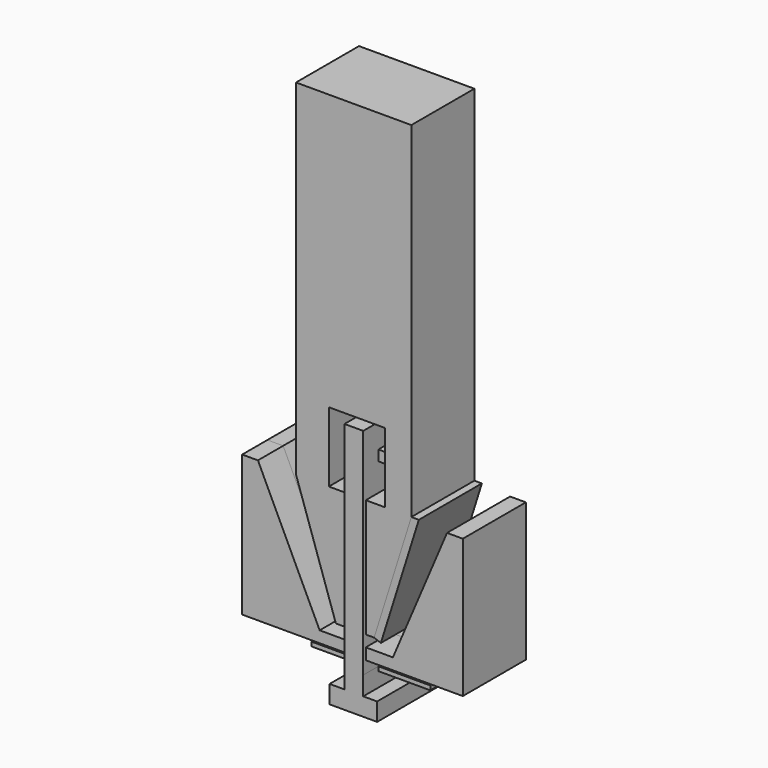
from build123d import *

# Parameters (mm, degrees)
F1_DEPTH = 25
F2_DEPTH = 25
F0_W     = 5.9533766471
F0_H     = 3.6081648873
F3_DEPTH = 25
F4_DEPTH = 15
F0_H_2   = 3.3184252679
F0_H_3   = 4.5973956585
F0_H_4   = 3.5789706303
F0_H_5   = 7.6343305409
F0_H_6   = 1.3497583568
F0_H_7   = 37.5237402231
F0_H_8   = 8.8124598652
F0_H_9   = 3.724694252
F5_DEPTH = 26
F0_W_2   = 16.4814870805
F0_W_3   = 15.3268058784
F6_DEPTH = 20
F0_W_4   = 3.1829625368
F0_W_5   = 3.4437016584
F7_DEPTH = 20


with BuildPart() as f1:
    # F0 (on Front) → F1 (new body)
    with BuildSketch(Plane.XZ):
        Polygon((-6.570763886, 7.1871355176), (-3.0373330228, 7.1871355176), (-3.0373330228, 44.7108757407), (-8.8012386113, 44.7108757407), (-8.8012386113, 66.8681040406), (9.0117957443, 66.8681040406), (9.0117957443, 44.7108757407), (2.9160436243, 44.7108757407), (2.9160436243, 7.1871355176), (5.5738165975, 7.1871355176), (17.3762962222, 44.7108757407), (17.3762962222, 154.1877835989), (-19.2284993827, 154.1877835989), (-19.2284993827, 44.7108757407), align=None)
        Polygon((-6.570763886, 7.1871355176), (-3.0373330228, 7.1871355176), (-3.0373330228, 44.7108757407), (-8.8012386113, 44.7108757407), (-8.8012386113, 66.8681040406), (9.0117957443, 66.8681040406), (9.0117957443, 44.7108757407), (2.9160436243, 44.7108757407), (2.9160436243, 7.1871355176), (5.5738165975, 7.1871355176), (17.3762962222, 44.7108757407), (17.3762962222, 154.1877835989), (-19.2284993827, 154.1877835989), (-19.2284993827, 44.7108757407), align=None)
    extrude(amount=F1_DEPTH)


with BuildPart() as f2:
    # F0 (on Front) → F2 (new body)
    with BuildSketch(Plane.XZ):
        Polygon((17.3762962222, 44.7108757407), (5.5738165975, 7.1871355176), (7.7029102343, 6.3787537654), (19.7596531361, 44.7108757407), align=None)
    extrude(amount=F2_DEPTH)


with BuildPart() as f3:
    # F0 (on Front) → F3 (new body)
    with BuildSketch(Plane.XZ):
        Polygon((13.683658185, 8.658802552), (11.5349981756, 3.6081648873), (10, 0), (15, 0), (33.7026296736, 43.9623790848), (28.7026296736, 43.9623790848), (25.7369572809, 36.991273083), align=None)
        Polygon((33.7026296736, 43.9623790848), (15, 0), (33.7026296736, 0), align=None)
        Polygon((11.5349981756, 3.6081648873), (2.9160436243, 3.6081648873), (2.9160436243, 0), (10, 0), align=None)
        with Locations((-0.0606446993, 1.8040824437)):
            Rectangle(F0_W, F0_H)
        Polygon((-3.0373330228, 3.6081648873), (-11.7186964588, 3.6081648873), (-10, 0), (-3.0373330228, 0), align=None)
        Polygon((-11.7186964588, 3.6081648873), (-31.2973703264, 44.7108757407), (-36.2973703264, 44.7108757407), (-15, 0), (-10, 0), align=None)
        Polygon((-15, 0), (-36.2973703264, 44.7108757407), (-36.2973703264, 0), align=None)
    extrude(amount=F3_DEPTH)


with BuildPart() as f4:
    # F0 (on Front) → F4 (new body)
    with BuildSketch(Plane.XZ):
        Polygon((11.5580922573, 9.5630682723), (13.683658185, 8.658802552), (25.7369572809, 36.991273083), (23.6113913532, 37.8955388033), align=None)
    extrude(amount=F4_DEPTH)


with BuildPart() as f4b:
    # F0 (on Front) → F4, piece 2 (new body)
    with BuildSketch(Plane.XZ):
        Polygon((-3.0373330228, 3.6081648873), (-11.7186964588, 3.6081648873), (-10, 0), (-3.0373330228, 0), align=None)
        Polygon((11.5349981756, 3.6081648873), (2.9160436243, 3.6081648873), (2.9160436243, 0), (10, 0), align=None)
        with Locations((-0.0606446993, 1.8040824437)):
            Rectangle(F0_W, F0_H)
        Polygon((-11.7186964588, 3.6081648873), (-31.2973703264, 44.7108757407), (-36.2973703264, 44.7108757407), (-15, 0), (-10, 0), align=None)
        Polygon((-15, 0), (-36.2973703264, 44.7108757407), (-36.2973703264, 0), align=None)
    extrude(amount=F4_DEPTH)


with BuildPart() as f5:
    # F0 (on Front) → F5 (new body)
    with BuildSketch(Plane.XZ):
        with Locations((-0.0606446993, 55.1825482398)):
            Rectangle(F0_W, F0_H_2)
        with Locations((-0.0606446993, -7.3731504381)):
            Rectangle(F0_W, F0_H_3)
        with Locations((-0.0606446993, 5.3976502025)):
            Rectangle(F0_W, F0_H_4)
        with Locations((-0.0606446993, 60.6589261442)):
            Rectangle(F0_W, F0_H_5)
        Polygon((2.9160436243, -9.6718482673), (-3.0373330228, -9.6718482673), (-7.7612702735, -9.6718482673), (-7.7612702735, -15.3836756945), (7.323355414, -15.3836756945), (7.323355414, -9.6718482673), align=None)
        with Locations((-0.0606446993, -4.3995734304)):
            Rectangle(F0_W, F0_H_6)
        with Locations((-0.0606446993, 25.9490056292)):
            Rectangle(F0_W, F0_H_7)
        with Locations((-0.0606446993, 49.1171056733)):
            Rectangle(F0_W, F0_H_8)
        with Locations((-0.0606446993, -1.862347126)):
            Rectangle(F0_W, F0_H_9)
        with Locations((-0.0606446993, 1.8040824437)):
            Rectangle(F0_W, F0_H)
    extrude(amount=F5_DEPTH)


with BuildPart() as f6:
    # F0 (on Front) → F6 (new body)
    with BuildSketch(Plane.XZ):
        with Locations((11.1567871645, -4.3995734304)):
            Rectangle(F0_W_2, F0_H_6)
        with Locations((-10.700735962, -4.3995734304)):
            Rectangle(F0_W_3, F0_H_6)
        with Locations((-0.0606446993, -4.3995734304)):
            Rectangle(F0_W, F0_H_6)
    extrude(amount=F6_DEPTH)


with BuildPart() as f7:
    # F0 (on Front) → F7 (new body)
    with BuildSketch(Plane.XZ):
        with Locations((-0.0606446993, 55.1825482398)):
            Rectangle(F0_W, F0_H_2)
        with Locations((4.5075248927, 55.1825482398)):
            Rectangle(F0_W_4, F0_H_2)
        with Locations((-4.759183852, 55.1825482398)):
            Rectangle(F0_W_5, F0_H_2)
    extrude(amount=F7_DEPTH)


solid = Compound([f1.part, f2.part, f3.part, f4.part, f4b.part, f5.part, f6.part, f7.part])
